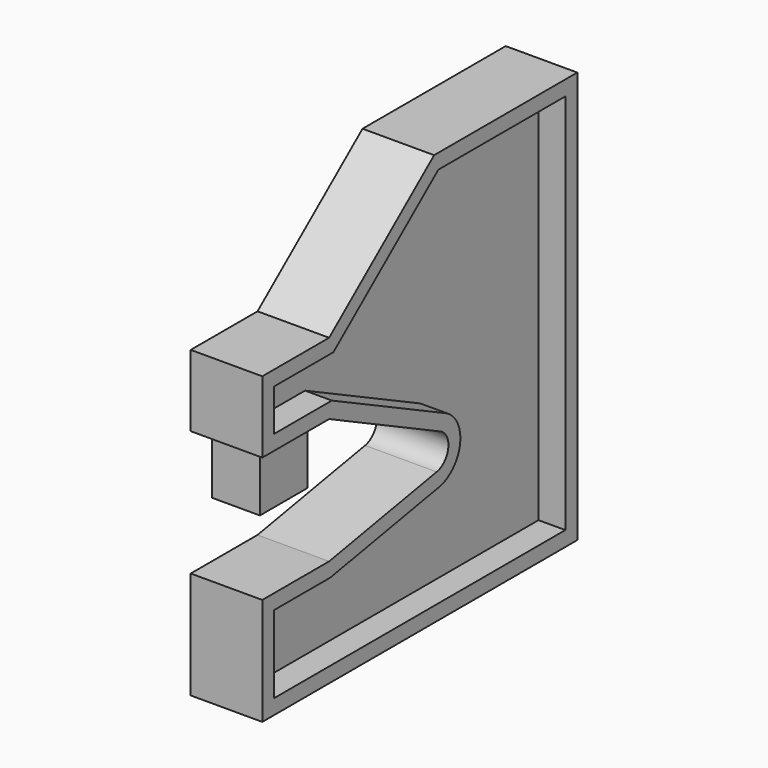
from build123d import *

# Parameters (mm, degrees)
F1_DEPTH = 38.1
F3_DEPTH = 152.4
F5_W     = 203.2
F5_H     = 254
F6_DEPTH = 254
F7_R     = 12.7
F8_DEPTH = 25.4


with BuildPart() as f1:
    # F0 (on Right) → F1 (new body, symmetric)
    with BuildSketch(Plane.YZ):
        with BuildLine():
            ThreePointArc((33.242401, 703.56663), (75.487635, 624.604952), (13.472578, 560.000469))
            Line((13.472578, 560.000469), (-558.8, 457.2))
            Line((-558.8, 457.2), (-914.4, 457.2))
            Line((-914.4, 457.2), (-914.4, 0))
            Line((-914.4, 0), (762, 0))
            Line((762, 0), (762, 1752.6))
            Line((762, 1752.6), (0, 1752.6))
            Line((0, 1752.6), (-558.8, 1295.4))
            Line((-558.8, 1295.4), (-914.4, 1295.4))
            Line((-914.4, 1295.4), (-914.4, 990.6))
            Line((-914.4, 990.6), (-558.8, 990.6))
            Line((-558.8, 990.6), (33.242401, 703.56663))
        make_face()
    extrude(amount=F1_DEPTH, both=True)


with BuildPart() as f3:
    # F2 (on Right) → F3 (new body, symmetric)
    with BuildSketch(Plane.YZ):
        with BuildLine():
            Line((-558.8, 990.6), (33.242401, 703.56663))
            ThreePointArc((33.242401, 703.56663), (75.487635, 624.604952), (13.472578, 560.000469))
            Line((13.472578, 560.000469), (-558.8, 457.2))
            Line((-558.8, 457.2), (-914.4, 457.2))
            Line((-914.4, 457.2), (-914.4, 0))
            Line((-914.4, 0), (762, 0))
            Line((762, 0), (762, 1752.6))
            Line((762, 1752.6), (0, 1752.6))
            Line((0, 1752.6), (-558.8, 1295.4))
            Line((-558.8, 1295.4), (-914.4, 1295.4))
            Line((-914.4, 1295.4), (-914.4, 990.6))
            Line((-914.4, 990.6), (-558.8, 990.6))
        make_face()
        with BuildLine():
            Line((698.5, 1689.1), (698.5, 63.5))
            Line((698.5, 63.5), (-850.9, 63.5))
            Line((-850.9, 63.5), (-850.9, 393.7))
            Line((-850.9, 393.7), (-553.141856, 393.7))
            Line((-553.141856, 393.7), (24.699726, 497.50086))
            ThreePointArc((24.699726, 497.50086), (138.393997, 615.942412), (60.944402, 760.705489))
            Line((60.944402, 760.705489), (-544.218653, 1054.1))
            Line((-544.218653, 1054.1), (-850.9, 1054.1))
            Line((-850.9, 1054.1), (-850.9, 1231.9))
            Line((-850.9, 1231.9), (-536.132825, 1231.9))
            Line((-536.132825, 1231.9), (22.667175, 1689.1))
            Line((22.667175, 1689.1), (698.5, 1689.1))
        make_face(mode=Mode.SUBTRACT)
    extrude(amount=F3_DEPTH, both=True)


with BuildPart() as f1_1:
    add(f1.part)

    # F4: union F3
    add(f3.part)

    # F5 (on face) → F6 (join)
    with BuildSketch(Plane(origin=(0, 0, 990.6), x_dir=(1, 0, 0), z_dir=(0, 0, -1))):
        with Locations((0, 736.6)):
            Rectangle(F5_W, F5_H)
    extrude(amount=F6_DEPTH)

    # F7 (on face) → F8 (join)
    with BuildSketch(Plane(origin=(0, 0, 736.6), x_dir=(1, 0, 0), z_dir=(0, 0, -1))):
        with Locations((0, 736.6)):
            Circle(F7_R)
    extrude(amount=F8_DEPTH)


solid = f1_1.part
